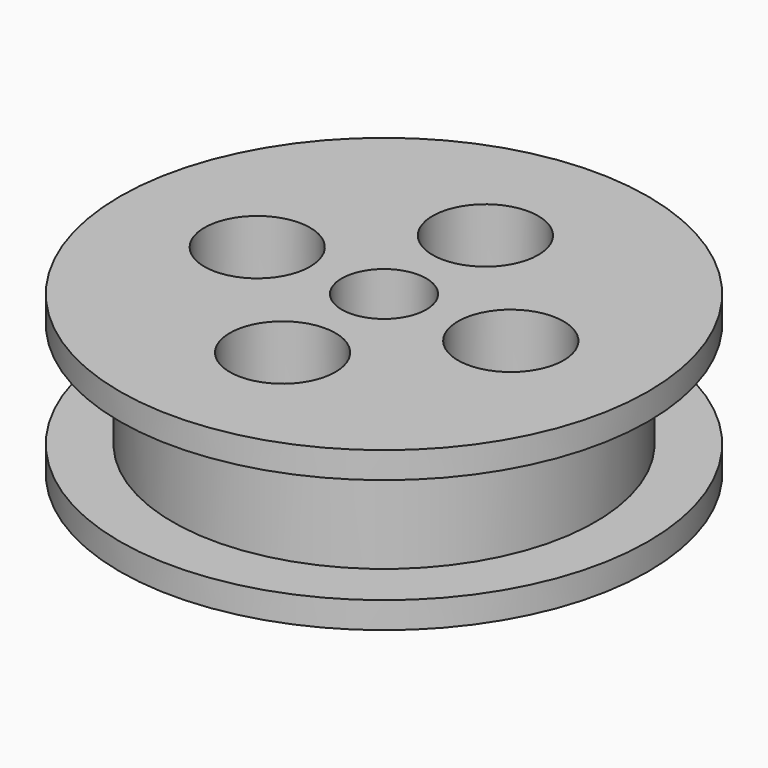
from build123d import *

# Parameters (mm, degrees)
F2_R     = 4
F3_DEPTH = 15.001
F4_R     = 5
F5_DEPTH = 15.001


with BuildPart() as f1:
    # F0 (on Front) → F1 (revolve)
    with BuildSketch(Plane.XZ):
        Polygon((0, -7.5), (0, 7.5), (-25, 7.5), (-25, 5), (-20, 5), (-20, -5), (-25, -5), (-25, -7.5), align=None)
    revolve(axis=Axis((0, 0, 0), (0, 0, -1)))

    # F2 (on face) → F3 (cut, through all)
    with BuildSketch(Plane.XY.offset(7.5)):
        Circle(F2_R)
    extrude(amount=-F3_DEPTH, mode=Mode.SUBTRACT)

    # F4 (on face) → F5 (cut, through all)
    with BuildSketch(Plane.XY.offset(7.5)):
        with Locations((-12, 0)):
            Circle(F4_R)
        with Locations((0, 12)):
            Circle(F4_R)
        with Locations((12, 0)):
            Circle(F4_R)
        with Locations((0, -12)):
            Circle(F4_R)
    extrude(amount=-F5_DEPTH, mode=Mode.SUBTRACT)


solid = f1.part
